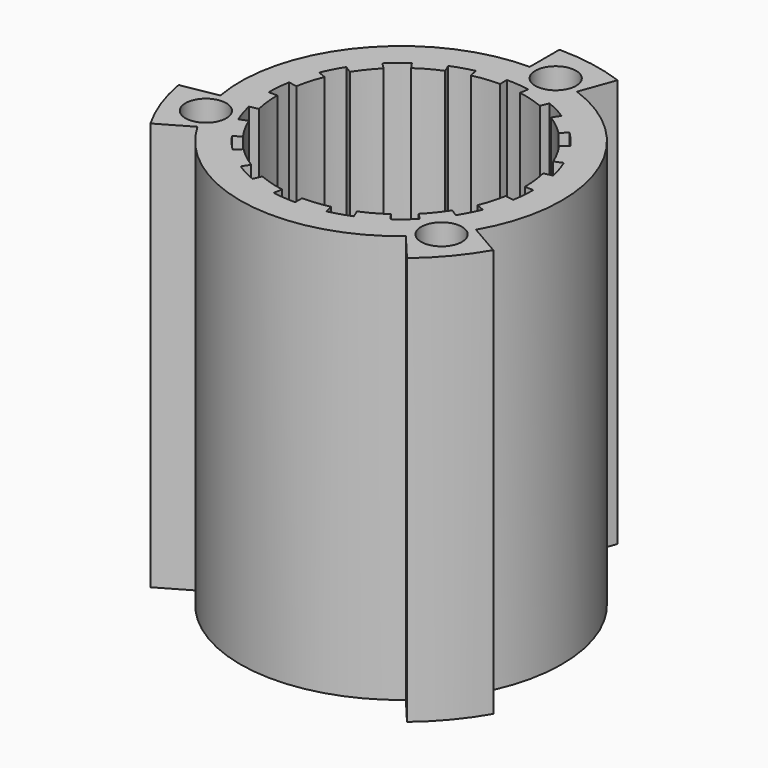
from build123d import *

# Parameters (mm, degrees)
F0_R     = 1.65
F0_R_2   = 5.35
F1_DEPTH = 3
F2_DEPTH = 33
F0_R_3   = 3.35
F3_DEPTH = 13
F4_DEPTH = 3


with BuildPart() as f1:
    # F0 (on Top) → F1 (new body)
    with BuildSketch(Plane.XY):
        with BuildLine():
            Line((-13.8564064606, -8), (-11.2583302492, -6.5))
            ThreePointArc((-11.2583302492, -6.5), (-2.2574263097, -12.8025007892), (8.3562389259, -9.9585777605))
            Line((8.3562389259, -9.9585777605), (10.284601755, -12.2567110899))
            ThreePointArc((10.284601755, -12.2567110899), (12.2567110899, -10.284601755), (13.8564064606, -8))
            Line((13.8564064606, -8), (11.2583302492, -6.5))
            ThreePointArc((11.2583302492, -6.5), (12.2160040702, 4.4462618632), (4.4462618632, 12.2160040702))
            Line((4.4462618632, 12.2160040702), (5.4723222932, 15.0350819326))
            ThreePointArc((5.4723222932, 15.0350819326), (2.7783708427, 15.7569240482), (0, 16))
            Line((0, 16), (0, 13))
            ThreePointArc((0, 13), (-9.9585777605, 8.3562389259), (-12.8025007892, -2.2574263097))
            Line((-12.8025007892, -2.2574263097), (-15.7569240482, -2.7783708427))
            ThreePointArc((-15.7569240482, -2.7783708427), (-15.0350819326, -5.4723222932), (-13.8564064606, -8))
        make_face()
        with Locations((-12.2160040702, -4.4462618632)):
            Circle(F0_R, mode=Mode.SUBTRACT)
        with Locations((9.9585777605, -8.3562389259)):
            Circle(F0_R, mode=Mode.SUBTRACT)
        with BuildLine():
            ThreePointArc((-9.762960081, -2.1643960953), (-9.9405633847, -1.0886687261), (-10, 0))
            Line((-10, 0), (-10.7, 0))
            ThreePointArc((-10.7, 0), (-10.6592832696, 0.9325664474), (-10.5374429572, 1.858035501))
            Line((-10.5374429572, 1.858035501), (-9.8480775301, 1.7364817767))
            ThreePointArc((-9.8480775301, 1.7364817767), (-9.6004985434, 2.7982901418), (-9.238795324, 3.8268343264))
            Line((-9.238795324, 3.8268343264), (-9.8855109966, 4.0947127293))
            ThreePointArc((-9.8855109966, 4.0947127293), (-9.4910159135, 4.9407101645), (-9.0242884685, 5.749105812))
            Line((-9.0242884685, 5.749105812), (-8.4339144565, 5.372996086))
            ThreePointArc((-8.4339144565, 5.372996086), (-7.7988448281, 6.2592347254), (-7.0710678076, 7.0710678161))
            Line((-7.0710678076, 7.0710678161), (-7.5660425541, 7.5660425633))
            ThreePointArc((-7.5660425541, 7.5660425633), (-6.8778274187, 8.1966755455), (-6.1372678637, 8.7649268776))
            Line((-6.1372678637, 8.7649268776), (-5.7357643586, 8.1915204463))
            ThreePointArc((-5.7357643586, 8.1915204463), (-4.8098876826, 8.7672675607), (-3.8268343153, 9.2387953286))
            Line((-3.8268343153, 9.2387953286), (-4.0947127174, 9.8855110016))
            ThreePointArc((-4.0947127174, 9.8855110016), (-3.2175520455, 10.2047713759), (-2.3159038597, 10.4463672783))
            Line((-2.3159038597, 10.4463672783), (-2.1643961306, 9.7629600732))
            ThreePointArc((-2.1643961306, 9.7629600732), (-1.088668738, 9.9405633834), (1.21e-08, 10))
            Line((1.21e-08, 10), (1.29e-08, 10.7))
            ThreePointArc((1.29e-08, 10.7), (0.9325664602, 10.6592832685), (1.8580355137, 10.537442955))
            Line((1.8580355137, 10.537442955), (1.7364817885, 9.848077528))
            ThreePointArc((1.7364817885, 9.848077528), (2.7982901533, 9.6004985401), (3.8268343376, 9.2387953193))
            Line((3.8268343376, 9.2387953193), (4.0947127412, 9.8855109917))
            ThreePointArc((4.0947127412, 9.8855109917), (4.9407101759, 9.4910159076), (5.7491058229, 9.0242884615))
            Line((5.7491058229, 9.0242884615), (5.3729960962, 8.43391445))
            ThreePointArc((5.3729960962, 8.43391445), (6.2592347348, 7.7988448206), (7.0710678246, 7.0710677991))
            Line((7.0710678246, 7.0710677991), (7.5660425724, 7.566042545))
            ThreePointArc((7.5660425724, 7.566042545), (8.1966755538, 6.8778274088), (8.764926885, 6.1372678531))
            Line((8.764926885, 6.1372678531), (8.1915204533, 5.7357643487))
            ThreePointArc((8.1915204533, 5.7357643487), (8.7672675665, 4.809887672), (9.2387953332, 3.8268343042))
            Line((9.2387953332, 3.8268343042), (9.8855110065, 4.0947127055))
            ThreePointArc((9.8855110065, 4.0947127055), (10.2047713798, 3.2175520332), (10.4463672811, 2.3159038471))
            Line((10.4463672811, 2.3159038471), (9.7629600758, 2.1643961188))
            ThreePointArc((9.7629600758, 2.1643961188), (9.9405633847, 1.0886687261), (10, -2.41e-08))
            Line((10, -2.41e-08), (10.7, -2.58e-08))
            ThreePointArc((10.7, -2.58e-08), (10.6592832673, -0.9325664731), (10.5374429528, -1.8580355264))
            Line((10.5374429528, -1.8580355264), (9.8480775259, -1.7364818004))
            ThreePointArc((9.8480775259, -1.7364818004), (9.6004985367, -2.7982901649), (9.2387953147, -3.8268343487))
            Line((9.2387953147, -3.8268343487), (9.8855109868, -4.0947127531))
            ThreePointArc((9.8855109868, -4.0947127531), (9.4910159016, -4.9407101873), (9.0242884546, -5.7491058338))
            Line((9.0242884546, -5.7491058338), (8.4339144436, -5.3729961063))
            ThreePointArc((8.4339144436, -5.3729961063), (7.798844813, -6.2592347442), (7.0710677906, -7.0710678332))
            Line((7.0710677906, -7.0710678332), (7.5660425359, -7.5660425815))
            ThreePointArc((7.5660425359, -7.5660425815), (6.877827399, -8.1966755621), (6.1372678425, -8.7649268924))
            Line((6.1372678425, -8.7649268924), (5.7357643388, -8.1915204602))
            ThreePointArc((5.7357643388, -8.1915204602), (4.8098876615, -8.7672675723), (3.826834293, -9.2387953378))
            Line((3.826834293, -9.2387953378), (4.0947126935, -9.8855110114))
            ThreePointArc((4.0947126935, -9.8855110114), (3.2175520209, -10.2047713837), (2.3159038345, -10.4463672839))
            Line((2.3159038345, -10.4463672839), (2.164396107, -9.7629600784))
            ThreePointArc((2.164396107, -9.7629600784), (1.0886687141, -9.940563386), (-3.62e-08, -10))
            Line((-3.62e-08, -10), (-3.87e-08, -10.7))
            ThreePointArc((-3.87e-08, -10.7), (-0.9325664859, -10.6592832662), (-1.8580355391, -10.5374429505))
            Line((-1.8580355391, -10.5374429505), (-1.7364818123, -9.8480775238))
            ThreePointArc((-1.7364818123, -9.8480775238), (-2.7982901765, -9.6004985333), (-3.8268343598, -9.2387953101))
            Line((-3.8268343598, -9.2387953101), (-4.094712765, -9.8855109818))
            ThreePointArc((-4.094712765, -9.8855109818), (-4.9407101988, -9.4910158957), (-5.7491058447, -9.0242884477))
            Line((-5.7491058447, -9.0242884477), (-5.3729961165, -8.4339144371))
            ThreePointArc((-5.3729961165, -8.4339144371), (-6.2592347536, -7.7988448055), (-7.0710678417, -7.071067782))
            Line((-7.0710678417, -7.071067782), (-7.5660425906, -7.5660425268))
            ThreePointArc((-7.5660425906, -7.5660425268), (-8.1966755704, -6.8778273891), (-8.7649268998, -6.137267832))
            Line((-8.7649268998, -6.137267832), (-8.1915204671, -5.735764329))
            ThreePointArc((-8.1915204671, -5.735764329), (-8.7672675781, -4.8098876509), (-9.2387953424, -3.8268342819))
            Line((-9.2387953424, -3.8268342819), (-9.8855110164, -4.0947126816))
            ThreePointArc((-9.8855110164, -4.0947126816), (-10.2047713875, -3.2175520086), (-10.4463672866, -2.3159038219))
            Line((-10.4463672866, -2.3159038219), (-9.762960081, -2.1643960953))
        make_face(mode=Mode.SUBTRACT)
        with Locations((2.2574263097, 12.8025007892)):
            Circle(F0_R, mode=Mode.SUBTRACT)
        with BuildLine():
            Line((-10.7, 0), (-10, 0))
            ThreePointArc((-10, 0), (-9.9405633847, -1.0886687261), (-9.762960081, -2.1643960953))
            ThreePointArc((-9.762960081, -2.1643960953), (-9.5371695211, -3.0070579519), (-9.2387953424, -3.8268342819))
            ThreePointArc((-9.2387953424, -3.8268342819), (-8.7672675781, -4.8098876509), (-8.1915204671, -5.735764329))
            ThreePointArc((-8.1915204671, -5.735764329), (-7.6604444583, -6.4278760646), (-7.0710678417, -7.071067782))
            ThreePointArc((-7.0710678417, -7.071067782), (-6.2592347536, -7.7988448055), (-5.3729961165, -8.4339144371))
            ThreePointArc((-5.3729961165, -8.4339144371), (-4.6174861671, -8.8701083137), (-3.8268343598, -9.2387953101))
            ThreePointArc((-3.8268343598, -9.2387953101), (-2.7982901765, -9.6004985333), (-1.7364818123, -9.8480775238))
            ThreePointArc((-1.7364818123, -9.8480775238), (-0.8715574635, -9.9619469778), (-3.62e-08, -10))
            ThreePointArc((-3.62e-08, -10), (1.0886687141, -9.940563386), (2.164396107, -9.7629600784))
            ThreePointArc((2.164396107, -9.7629600784), (3.0070579634, -9.5371695174), (3.826834293, -9.2387953378))
            ThreePointArc((3.826834293, -9.2387953378), (4.8098876615, -8.7672675723), (5.7357643388, -8.1915204602))
            ThreePointArc((5.7357643388, -8.1915204602), (6.4278760738, -7.6604444506), (7.0710677906, -7.0710678332))
            ThreePointArc((7.0710677906, -7.0710678332), (7.798844813, -6.2592347442), (8.4339144436, -5.3729961063))
            ThreePointArc((8.4339144436, -5.3729961063), (8.8701083193, -4.6174861564), (9.2387953147, -3.8268343487))
            ThreePointArc((9.2387953147, -3.8268343487), (9.6004985367, -2.7982901649), (9.8480775259, -1.7364818004))
            ThreePointArc((9.8480775259, -1.7364818004), (9.9619469788, -0.8715574515), (10, -2.41e-08))
            ThreePointArc((10, -2.41e-08), (9.9405633847, 1.0886687261), (9.7629600758, 2.1643961188))
            ThreePointArc((9.7629600758, 2.1643961188), (9.5371695138, 3.0070579749), (9.2387953332, 3.8268343042))
            ThreePointArc((9.2387953332, 3.8268343042), (8.7672675665, 4.809887672), (8.1915204533, 5.7357643487))
            ThreePointArc((8.1915204533, 5.7357643487), (7.6604444428, 6.427876083), (7.0710678246, 7.0710677991))
            ThreePointArc((7.0710678246, 7.0710677991), (6.2592347348, 7.7988448206), (5.3729960962, 8.43391445))
            ThreePointArc((5.3729960962, 8.43391445), (4.6174861457, 8.8701083248), (3.8268343376, 9.2387953193))
            ThreePointArc((3.8268343376, 9.2387953193), (2.7982901533, 9.6004985401), (1.7364817885, 9.848077528))
            ThreePointArc((1.7364817885, 9.848077528), (0.8715574395, 9.9619469799), (1.21e-08, 10))
            ThreePointArc((1.21e-08, 10), (-1.088668738, 9.9405633834), (-2.1643961306, 9.7629600732))
            ThreePointArc((-2.1643961306, 9.7629600732), (-3.0070579864, 9.5371695102), (-3.8268343153, 9.2387953286))
            ThreePointArc((-3.8268343153, 9.2387953286), (-4.8098876826, 8.7672675607), (-5.7357643586, 8.1915204463))
            ThreePointArc((-5.7357643586, 8.1915204463), (-6.4278760922, 7.6604444351), (-7.0710678076, 7.0710678161))
            ThreePointArc((-7.0710678076, 7.0710678161), (-7.7988448281, 6.2592347254), (-8.4339144565, 5.372996086))
            ThreePointArc((-8.4339144565, 5.372996086), (-8.8701083304, 4.617486135), (-9.238795324, 3.8268343264))
            ThreePointArc((-9.238795324, 3.8268343264), (-9.6004985434, 2.7982901418), (-9.8480775301, 1.7364817767))
            Line((-9.8480775301, 1.7364817767), (-10.5374429572, 1.858035501))
            ThreePointArc((-10.5374429572, 1.858035501), (-10.6592832696, 0.9325664474), (-10.7, 0))
        make_face()
        Circle(F0_R_2, mode=Mode.SUBTRACT)
    extrude(amount=F1_DEPTH)

    # F0 (on Top) → F2 (join)
    with BuildSketch(Plane.XY):
        with BuildLine():
            Line((-13.8564064606, -8), (-11.2583302492, -6.5))
            ThreePointArc((-11.2583302492, -6.5), (-2.2574263097, -12.8025007892), (8.3562389259, -9.9585777605))
            Line((8.3562389259, -9.9585777605), (10.284601755, -12.2567110899))
            ThreePointArc((10.284601755, -12.2567110899), (12.2567110899, -10.284601755), (13.8564064606, -8))
            Line((13.8564064606, -8), (11.2583302492, -6.5))
            ThreePointArc((11.2583302492, -6.5), (12.2160040702, 4.4462618632), (4.4462618632, 12.2160040702))
            Line((4.4462618632, 12.2160040702), (5.4723222932, 15.0350819326))
            ThreePointArc((5.4723222932, 15.0350819326), (2.7783708427, 15.7569240482), (0, 16))
            Line((0, 16), (0, 13))
            ThreePointArc((0, 13), (-9.9585777605, 8.3562389259), (-12.8025007892, -2.2574263097))
            Line((-12.8025007892, -2.2574263097), (-15.7569240482, -2.7783708427))
            ThreePointArc((-15.7569240482, -2.7783708427), (-15.0350819326, -5.4723222932), (-13.8564064606, -8))
        make_face()
        with Locations((-12.2160040702, -4.4462618632)):
            Circle(F0_R, mode=Mode.SUBTRACT)
        with Locations((9.9585777605, -8.3562389259)):
            Circle(F0_R, mode=Mode.SUBTRACT)
        with BuildLine():
            ThreePointArc((-9.762960081, -2.1643960953), (-9.9405633847, -1.0886687261), (-10, 0))
            Line((-10, 0), (-10.7, 0))
            ThreePointArc((-10.7, 0), (-10.6592832696, 0.9325664474), (-10.5374429572, 1.858035501))
            Line((-10.5374429572, 1.858035501), (-9.8480775301, 1.7364817767))
            ThreePointArc((-9.8480775301, 1.7364817767), (-9.6004985434, 2.7982901418), (-9.238795324, 3.8268343264))
            Line((-9.238795324, 3.8268343264), (-9.8855109966, 4.0947127293))
            ThreePointArc((-9.8855109966, 4.0947127293), (-9.4910159135, 4.9407101645), (-9.0242884685, 5.749105812))
            Line((-9.0242884685, 5.749105812), (-8.4339144565, 5.372996086))
            ThreePointArc((-8.4339144565, 5.372996086), (-7.7988448281, 6.2592347254), (-7.0710678076, 7.0710678161))
            Line((-7.0710678076, 7.0710678161), (-7.5660425541, 7.5660425633))
            ThreePointArc((-7.5660425541, 7.5660425633), (-6.8778274187, 8.1966755455), (-6.1372678637, 8.7649268776))
            Line((-6.1372678637, 8.7649268776), (-5.7357643586, 8.1915204463))
            ThreePointArc((-5.7357643586, 8.1915204463), (-4.8098876826, 8.7672675607), (-3.8268343153, 9.2387953286))
            Line((-3.8268343153, 9.2387953286), (-4.0947127174, 9.8855110016))
            ThreePointArc((-4.0947127174, 9.8855110016), (-3.2175520455, 10.2047713759), (-2.3159038597, 10.4463672783))
            Line((-2.3159038597, 10.4463672783), (-2.1643961306, 9.7629600732))
            ThreePointArc((-2.1643961306, 9.7629600732), (-1.088668738, 9.9405633834), (1.21e-08, 10))
            Line((1.21e-08, 10), (1.29e-08, 10.7))
            ThreePointArc((1.29e-08, 10.7), (0.9325664602, 10.6592832685), (1.8580355137, 10.537442955))
            Line((1.8580355137, 10.537442955), (1.7364817885, 9.848077528))
            ThreePointArc((1.7364817885, 9.848077528), (2.7982901533, 9.6004985401), (3.8268343376, 9.2387953193))
            Line((3.8268343376, 9.2387953193), (4.0947127412, 9.8855109917))
            ThreePointArc((4.0947127412, 9.8855109917), (4.9407101759, 9.4910159076), (5.7491058229, 9.0242884615))
            Line((5.7491058229, 9.0242884615), (5.3729960962, 8.43391445))
            ThreePointArc((5.3729960962, 8.43391445), (6.2592347348, 7.7988448206), (7.0710678246, 7.0710677991))
            Line((7.0710678246, 7.0710677991), (7.5660425724, 7.566042545))
            ThreePointArc((7.5660425724, 7.566042545), (8.1966755538, 6.8778274088), (8.764926885, 6.1372678531))
            Line((8.764926885, 6.1372678531), (8.1915204533, 5.7357643487))
            ThreePointArc((8.1915204533, 5.7357643487), (8.7672675665, 4.809887672), (9.2387953332, 3.8268343042))
            Line((9.2387953332, 3.8268343042), (9.8855110065, 4.0947127055))
            ThreePointArc((9.8855110065, 4.0947127055), (10.2047713798, 3.2175520332), (10.4463672811, 2.3159038471))
            Line((10.4463672811, 2.3159038471), (9.7629600758, 2.1643961188))
            ThreePointArc((9.7629600758, 2.1643961188), (9.9405633847, 1.0886687261), (10, -2.41e-08))
            Line((10, -2.41e-08), (10.7, -2.58e-08))
            ThreePointArc((10.7, -2.58e-08), (10.6592832673, -0.9325664731), (10.5374429528, -1.8580355264))
            Line((10.5374429528, -1.8580355264), (9.8480775259, -1.7364818004))
            ThreePointArc((9.8480775259, -1.7364818004), (9.6004985367, -2.7982901649), (9.2387953147, -3.8268343487))
            Line((9.2387953147, -3.8268343487), (9.8855109868, -4.0947127531))
            ThreePointArc((9.8855109868, -4.0947127531), (9.4910159016, -4.9407101873), (9.0242884546, -5.7491058338))
            Line((9.0242884546, -5.7491058338), (8.4339144436, -5.3729961063))
            ThreePointArc((8.4339144436, -5.3729961063), (7.798844813, -6.2592347442), (7.0710677906, -7.0710678332))
            Line((7.0710677906, -7.0710678332), (7.5660425359, -7.5660425815))
            ThreePointArc((7.5660425359, -7.5660425815), (6.877827399, -8.1966755621), (6.1372678425, -8.7649268924))
            Line((6.1372678425, -8.7649268924), (5.7357643388, -8.1915204602))
            ThreePointArc((5.7357643388, -8.1915204602), (4.8098876615, -8.7672675723), (3.826834293, -9.2387953378))
            Line((3.826834293, -9.2387953378), (4.0947126935, -9.8855110114))
            ThreePointArc((4.0947126935, -9.8855110114), (3.2175520209, -10.2047713837), (2.3159038345, -10.4463672839))
            Line((2.3159038345, -10.4463672839), (2.164396107, -9.7629600784))
            ThreePointArc((2.164396107, -9.7629600784), (1.0886687141, -9.940563386), (-3.62e-08, -10))
            Line((-3.62e-08, -10), (-3.87e-08, -10.7))
            ThreePointArc((-3.87e-08, -10.7), (-0.9325664859, -10.6592832662), (-1.8580355391, -10.5374429505))
            Line((-1.8580355391, -10.5374429505), (-1.7364818123, -9.8480775238))
            ThreePointArc((-1.7364818123, -9.8480775238), (-2.7982901765, -9.6004985333), (-3.8268343598, -9.2387953101))
            Line((-3.8268343598, -9.2387953101), (-4.094712765, -9.8855109818))
            ThreePointArc((-4.094712765, -9.8855109818), (-4.9407101988, -9.4910158957), (-5.7491058447, -9.0242884477))
            Line((-5.7491058447, -9.0242884477), (-5.3729961165, -8.4339144371))
            ThreePointArc((-5.3729961165, -8.4339144371), (-6.2592347536, -7.7988448055), (-7.0710678417, -7.071067782))
            Line((-7.0710678417, -7.071067782), (-7.5660425906, -7.5660425268))
            ThreePointArc((-7.5660425906, -7.5660425268), (-8.1966755704, -6.8778273891), (-8.7649268998, -6.137267832))
            Line((-8.7649268998, -6.137267832), (-8.1915204671, -5.735764329))
            ThreePointArc((-8.1915204671, -5.735764329), (-8.7672675781, -4.8098876509), (-9.2387953424, -3.8268342819))
            Line((-9.2387953424, -3.8268342819), (-9.8855110164, -4.0947126816))
            ThreePointArc((-9.8855110164, -4.0947126816), (-10.2047713875, -3.2175520086), (-10.4463672866, -2.3159038219))
            Line((-10.4463672866, -2.3159038219), (-9.762960081, -2.1643960953))
        make_face(mode=Mode.SUBTRACT)
        with Locations((2.2574263097, 12.8025007892)):
            Circle(F0_R, mode=Mode.SUBTRACT)
    extrude(amount=F2_DEPTH)

    # F0 (on Top) → F3 (join)
    with BuildSketch(Plane.XY):
        Circle(F0_R_2)
        Circle(F0_R_3, mode=Mode.SUBTRACT)
    extrude(amount=F3_DEPTH)

    # F0 (on Top) → F4 (join)
    with BuildSketch(Plane.XY):
        with BuildLine():
            Line((1.29e-08, 10.7), (1.21e-08, 10))
            ThreePointArc((1.21e-08, 10), (0.8715574395, 9.9619469799), (1.7364817885, 9.848077528))
            Line((1.7364817885, 9.848077528), (1.8580355137, 10.537442955))
            ThreePointArc((1.8580355137, 10.537442955), (0.9325664602, 10.6592832685), (1.29e-08, 10.7))
        make_face()
        with BuildLine():
            Line((-4.0947127174, 9.8855110016), (-3.8268343153, 9.2387953286))
            ThreePointArc((-3.8268343153, 9.2387953286), (-3.0070579864, 9.5371695102), (-2.1643961306, 9.7629600732))
            Line((-2.1643961306, 9.7629600732), (-2.3159038597, 10.4463672783))
            ThreePointArc((-2.3159038597, 10.4463672783), (-3.2175520455, 10.2047713759), (-4.0947127174, 9.8855110016))
        make_face()
        with BuildLine():
            Line((-7.5660425541, 7.5660425633), (-7.0710678076, 7.0710678161))
            ThreePointArc((-7.0710678076, 7.0710678161), (-6.4278760922, 7.6604444351), (-5.7357643586, 8.1915204463))
            Line((-5.7357643586, 8.1915204463), (-6.1372678637, 8.7649268776))
            ThreePointArc((-6.1372678637, 8.7649268776), (-6.8778274187, 8.1966755455), (-7.5660425541, 7.5660425633))
        make_face()
        with BuildLine():
            Line((-9.8855109966, 4.0947127293), (-9.238795324, 3.8268343264))
            ThreePointArc((-9.238795324, 3.8268343264), (-8.8701083304, 4.617486135), (-8.4339144565, 5.372996086))
            Line((-8.4339144565, 5.372996086), (-9.0242884685, 5.749105812))
            ThreePointArc((-9.0242884685, 5.749105812), (-9.4910159135, 4.9407101645), (-9.8855109966, 4.0947127293))
        make_face()
        with BuildLine():
            Line((4.0947127412, 9.8855109917), (3.8268343376, 9.2387953193))
            ThreePointArc((3.8268343376, 9.2387953193), (4.6174861457, 8.8701083248), (5.3729960962, 8.43391445))
            Line((5.3729960962, 8.43391445), (5.7491058229, 9.0242884615))
            ThreePointArc((5.7491058229, 9.0242884615), (4.9407101759, 9.4910159076), (4.0947127412, 9.8855109917))
        make_face()
        with BuildLine():
            Line((7.5660425724, 7.566042545), (7.0710678246, 7.0710677991))
            ThreePointArc((7.0710678246, 7.0710677991), (7.6604444428, 6.427876083), (8.1915204533, 5.7357643487))
            Line((8.1915204533, 5.7357643487), (8.764926885, 6.1372678531))
            ThreePointArc((8.764926885, 6.1372678531), (8.1966755538, 6.8778274088), (7.5660425724, 7.566042545))
        make_face()
        with BuildLine():
            Line((9.8855110065, 4.0947127055), (9.2387953332, 3.8268343042))
            ThreePointArc((9.2387953332, 3.8268343042), (9.5371695138, 3.0070579749), (9.7629600758, 2.1643961188))
            Line((9.7629600758, 2.1643961188), (10.4463672811, 2.3159038471))
            ThreePointArc((10.4463672811, 2.3159038471), (10.2047713798, 3.2175520332), (9.8855110065, 4.0947127055))
        make_face()
        with BuildLine():
            ThreePointArc((10, -2.41e-08), (9.9619469788, -0.8715574515), (9.8480775259, -1.7364818004))
            Line((9.8480775259, -1.7364818004), (10.5374429528, -1.8580355264))
            ThreePointArc((10.5374429528, -1.8580355264), (10.6592832673, -0.9325664731), (10.7, -2.58e-08))
            Line((10.7, -2.58e-08), (10, -2.41e-08))
        make_face()
        with BuildLine():
            ThreePointArc((9.2387953147, -3.8268343487), (8.8701083193, -4.6174861564), (8.4339144436, -5.3729961063))
            Line((8.4339144436, -5.3729961063), (9.0242884546, -5.7491058338))
            ThreePointArc((9.0242884546, -5.7491058338), (9.4910159016, -4.9407101873), (9.8855109868, -4.0947127531))
            Line((9.8855109868, -4.0947127531), (9.2387953147, -3.8268343487))
        make_face()
        with BuildLine():
            ThreePointArc((7.0710677906, -7.0710678332), (6.4278760738, -7.6604444506), (5.7357643388, -8.1915204602))
            Line((5.7357643388, -8.1915204602), (6.1372678425, -8.7649268924))
            ThreePointArc((6.1372678425, -8.7649268924), (6.877827399, -8.1966755621), (7.5660425359, -7.5660425815))
            Line((7.5660425359, -7.5660425815), (7.0710677906, -7.0710678332))
        make_face()
        with BuildLine():
            ThreePointArc((3.826834293, -9.2387953378), (3.0070579634, -9.5371695174), (2.164396107, -9.7629600784))
            Line((2.164396107, -9.7629600784), (2.3159038345, -10.4463672839))
            ThreePointArc((2.3159038345, -10.4463672839), (3.2175520209, -10.2047713837), (4.0947126935, -9.8855110114))
            Line((4.0947126935, -9.8855110114), (3.826834293, -9.2387953378))
        make_face()
        with BuildLine():
            ThreePointArc((-3.62e-08, -10), (-0.8715574635, -9.9619469778), (-1.7364818123, -9.8480775238))
            Line((-1.7364818123, -9.8480775238), (-1.8580355391, -10.5374429505))
            ThreePointArc((-1.8580355391, -10.5374429505), (-0.9325664859, -10.6592832662), (-3.87e-08, -10.7))
            Line((-3.87e-08, -10.7), (-3.62e-08, -10))
        make_face()
        with BuildLine():
            ThreePointArc((-3.8268343598, -9.2387953101), (-4.6174861671, -8.8701083137), (-5.3729961165, -8.4339144371))
            Line((-5.3729961165, -8.4339144371), (-5.7491058447, -9.0242884477))
            ThreePointArc((-5.7491058447, -9.0242884477), (-4.9407101988, -9.4910158957), (-4.094712765, -9.8855109818))
            Line((-4.094712765, -9.8855109818), (-3.8268343598, -9.2387953101))
        make_face()
        with BuildLine():
            ThreePointArc((-7.0710678417, -7.071067782), (-7.6604444583, -6.4278760646), (-8.1915204671, -5.735764329))
            Line((-8.1915204671, -5.735764329), (-8.7649268998, -6.137267832))
            ThreePointArc((-8.7649268998, -6.137267832), (-8.1966755704, -6.8778273891), (-7.5660425906, -7.5660425268))
            Line((-7.5660425906, -7.5660425268), (-7.0710678417, -7.071067782))
        make_face()
        with BuildLine():
            ThreePointArc((-9.2387953424, -3.8268342819), (-9.5371695211, -3.0070579519), (-9.762960081, -2.1643960953))
            Line((-9.762960081, -2.1643960953), (-10.4463672866, -2.3159038219))
            ThreePointArc((-10.4463672866, -2.3159038219), (-10.2047713875, -3.2175520086), (-9.8855110164, -4.0947126816))
            Line((-9.8855110164, -4.0947126816), (-9.2387953424, -3.8268342819))
        make_face()
    extrude(amount=F4_DEPTH)


solid = f1.part
